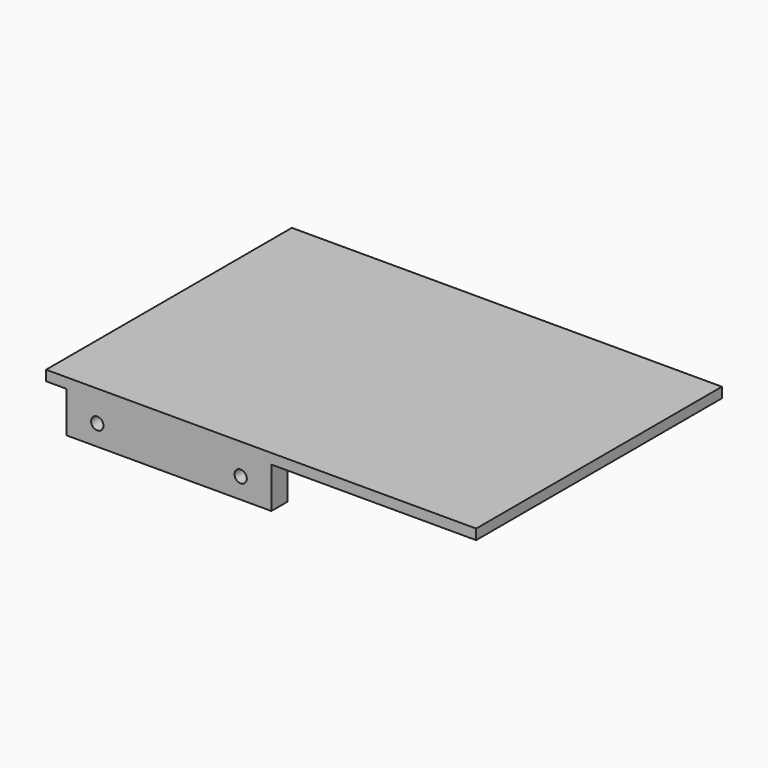
from build123d import *

# Parameters (mm, degrees)
PAD_DEPTH    = 10
SKETCH002_R  = 1.5
POCKET_DEPTH = 5.001
SKETCH_W     = 105
SKETCH_H     = 75
PAD001_DEPTH = 2.5


with BuildPart() as part:
    # Sketch001 → Pad (new body)
    with BuildSketch(Plane.XY.offset(2.5)):
        Polygon((5, 0), (5, 5), (23, 5), (23, 65), (83, 65), (83, 55), (33, 55), (33, 5), (55, 5), (55, 0), align=None)
    extrude(amount=PAD_DEPTH)

    # Sketch002 → Pocket (cut, through all)
    with BuildSketch(Plane(origin=(0, 5, 2.5), x_dir=(-1, 0, 0), z_dir=(0, 1, 0))):
        with Locations((-12.5, 5)):
            Circle(SKETCH002_R)
        with Locations((-47.5, 5)):
            Circle(SKETCH002_R)
    extrude(amount=-POCKET_DEPTH, mode=Mode.SUBTRACT)

    # Sketch → Pad001 (new body)
    with BuildSketch(Plane.XY.offset(12.5)):
        with Locations((52.5, 37.5)):
            Rectangle(SKETCH_W, SKETCH_H)
    extrude(amount=PAD001_DEPTH)


solid = part.part
